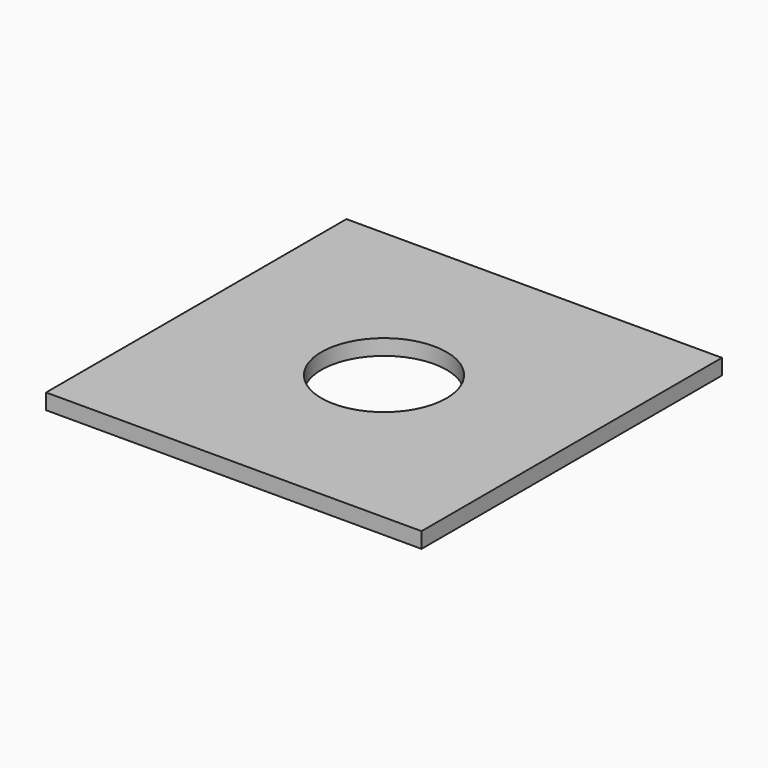
from build123d import *

# Parameters (mm, degrees)
SKETCH_W  = 12
SKETCH_H  = 12
SKETCH_R  = 2
PAD_DEPTH = 0.5


with BuildPart() as part:
    # Sketch → Pad (new body)
    with BuildSketch(Plane.XY):
        Rectangle(SKETCH_W, SKETCH_H)
        Circle(SKETCH_R, mode=Mode.SUBTRACT)
    extrude(amount=PAD_DEPTH)


solid = part.part
